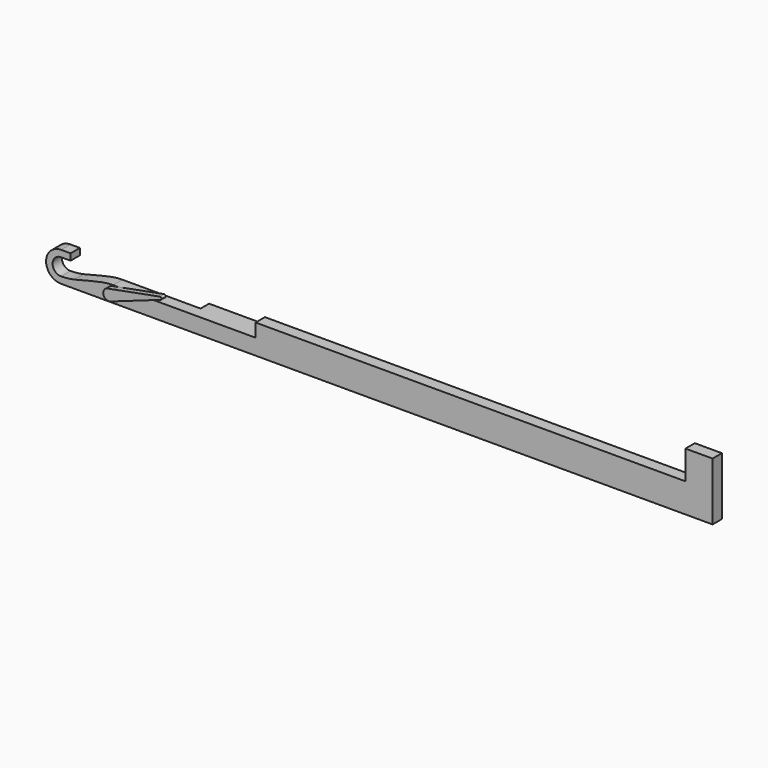
from build123d import *

# Parameters (mm, degrees)
F0_R     = 0.5
F1_DEPTH = 2.15
F2_DEPTH = 4.1
F3_DEPTH = 1


with BuildPart() as f1:
    # F0 (on Front) → F1 (new body)
    with BuildSketch(Plane.XZ):
        with BuildLine():
            Line((0, 10.66), (-4.98, 10.66))
            Line((-4.98, 10.66), (-4.98, 5.36))
            Line((-4.98, 5.36), (-83.98, 5.36))
            Line((-83.98, 5.36), (-83.98, 2.9))
            Line((-83.98, 2.9), (-73.98, 2.9))
            Line((-73.98, 2.9), (-73.98, 0.75))
            Line((-73.98, 0.75), (-95.81, 0.75))
            Line((-95.81, 0.75), (-95.81, 2.9))
            Line((-95.81, 2.9), (-103.7941037767, 2.9))
            Line((-103.7941037767, 2.9), (-109.8462645235, 0.757333234))
            ThreePointArc((-109.8462645235, 0.757333234), (-111.1454676377, 1.4394769866), (-110.3657786893, 2.6825916133))
            Line((-110.3657786893, 2.6825916133), (-109.2158962233, 2.9))
            Line((-109.2158962233, 2.9), (-110.18, 2.9))
            add(Edge.make_bspline(
                [(-117.2944879845, 1.4729795529), (-114.9234880226, 1.9534816653), (-112.5864989427, 2.9), (-110.18, 2.9)],
                knots=[2.4621458667, 2.4621458667, 2.4621458667, 2.4621458667, 9.7001288651, 9.7001288651, 9.7001288651, 9.7001288651], degree=3))
            ThreePointArc((-117.2944879845, 1.4729795529), (-118.3068531751, 0.3968843813), (-119.73, 0))
            Line((-119.73, 0), (0, 0))
            Line((0, 0), (0, 10.66))
        make_face()
        with BuildLine():
            ThreePointArc((-119.73, 5.5), (-121.6745436483, 4.6945436483), (-122.48, 2.75))
            ThreePointArc((-122.48, 2.75), (-121.6745436483, 0.8054563517), (-119.73, 0))
            ThreePointArc((-119.73, 0), (-118.3068531751, 0.3968843813), (-117.2944879845, 1.4729795529))
            add(Edge.make_bspline(
                [(-119.73, 1.2), (-118.9115104728, 1.2), (-118.1010314314, 1.3095270702), (-117.2944879845, 1.4729795529)],
                knots=[0, 0, 0, 0, 2.4621458667, 2.4621458667, 2.4621458667, 2.4621458667], degree=3))
            ThreePointArc((-119.73, 1.2), (-121.28, 2.75), (-119.73, 4.3))
            Line((-119.73, 4.3), (-117.98, 4.3))
            Line((-117.98, 4.3), (-117.98, 4.8713203436))
            ThreePointArc((-117.98, 4.8713203436), (-118.8002502877, 5.3380621075), (-119.73, 5.5))
        make_face()
        with BuildLine():
            Line((-117.98, 5.5), (-119.73, 5.5))
            ThreePointArc((-119.73, 5.5), (-118.8002502877, 5.3380621075), (-117.98, 4.8713203436))
            Line((-117.98, 4.8713203436), (-117.98, 5.5))
        make_face()
        with BuildLine():
            Line((-103.7941037767, 2.9), (-109.2158962233, 2.9))
            Line((-109.2158962233, 2.9), (-110.3657786893, 2.6825916133))
            ThreePointArc((-110.3657786893, 2.6825916133), (-109.5419477644, 2.4699930809), (-109.18, 1.7))
            ThreePointArc((-109.18, 1.7), (-109.3633802976, 1.1228238902), (-109.8462645235, 0.757333234))
            Line((-109.8462645235, 0.757333234), (-103.7941037767, 2.9))
        make_face()
        with BuildLine():
            ThreePointArc((-109.18, 1.7), (-109.5419477644, 2.4699930809), (-110.3657786893, 2.6825916133))
            ThreePointArc((-110.3657786893, 2.6825916133), (-111.1454676377, 1.4394769866), (-109.8462645235, 0.757333234))
            ThreePointArc((-109.8462645235, 0.757333234), (-109.3633802976, 1.1228238902), (-109.18, 1.7))
        make_face()
        with Locations((-110.18, 1.7)):
            Circle(F0_R, mode=Mode.SUBTRACT)
    extrude(amount=-F1_DEPTH)

    # F0 (on Front) → F2 (join)
    with BuildSketch(Plane.XZ):
        Polygon((-73.98, 2.9), (-83.98, 2.9), (-95.81, 2.9), (-95.81, 0.75), (-73.98, 0.75), align=None)
    extrude(amount=-F2_DEPTH)


with BuildPart() as f3:
    # F0 (on Front) → F3 (new body)
    with BuildSketch(Plane.XZ):
        with BuildLine():
            ThreePointArc((-109.18, 1.7), (-109.5419477644, 2.4699930809), (-110.3657786893, 2.6825916133))
            ThreePointArc((-110.3657786893, 2.6825916133), (-111.1454676377, 1.4394769866), (-109.8462645235, 0.757333234))
            ThreePointArc((-109.8462645235, 0.757333234), (-109.3633802976, 1.1228238902), (-109.18, 1.7))
        make_face()
        with Locations((-110.18, 1.7)):
            Circle(F0_R, mode=Mode.SUBTRACT)
        with BuildLine():
            Line((-103.7941037767, 2.9), (-109.2158962233, 2.9))
            Line((-109.2158962233, 2.9), (-110.3657786893, 2.6825916133))
            ThreePointArc((-110.3657786893, 2.6825916133), (-109.5419477644, 2.4699930809), (-109.18, 1.7))
            ThreePointArc((-109.18, 1.7), (-109.3633802976, 1.1228238902), (-109.8462645235, 0.757333234))
            Line((-109.8462645235, 0.757333234), (-103.7941037767, 2.9))
        make_face()
        with BuildLine():
            Line((-100.7764446723, 4.4956479033), (-109.2158962233, 2.9))
            Line((-109.2158962233, 2.9), (-103.7941037767, 2.9))
            Line((-103.7941037767, 2.9), (-100.6465661309, 4.0143333085))
            ThreePointArc((-100.6465661309, 4.0143333085), (-100.9713669094, 4.1848692467), (-100.7764446723, 4.4956479033))
        make_face()
        with BuildLine():
            ThreePointArc((-100.48, 4.25), (-100.5704869411, 4.4424982702), (-100.7764446723, 4.4956479033))
            ThreePointArc((-100.7764446723, 4.4956479033), (-100.9713669094, 4.1848692467), (-100.6465661309, 4.0143333085))
            ThreePointArc((-100.6465661309, 4.0143333085), (-100.5258450744, 4.1057059725), (-100.48, 4.25))
        make_face()
        with Locations((-110.18, 1.7)):
            Circle(F0_R)
    extrude(amount=F3_DEPTH)


solid = Compound([f1.part, f3.part])
